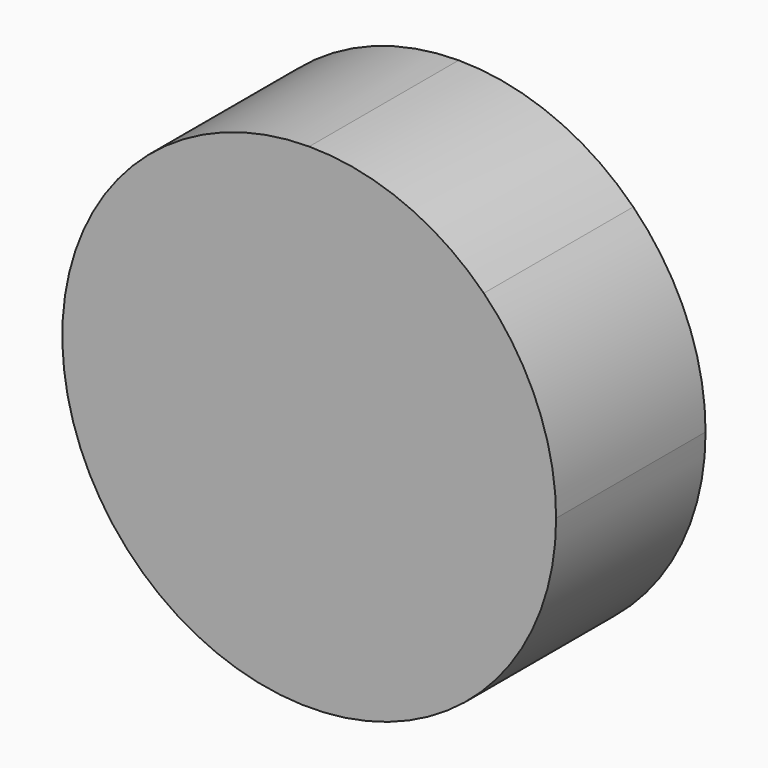
from build123d import *

# Parameters (mm, degrees)
F1_DEPTH = 12.5


with BuildPart() as f1:
    # F0 (on Front) → F1 (new body, symmetric)
    with BuildSketch(Plane.XZ):
        with BuildLine():
            ThreePointArc((0, 33.040493), (-23.363156, -23.363156), (33.040493, 0))
            Line((33.040493, 0), (0, 0))
            Line((0, 0), (0, 33.040493))
        make_face()
        with BuildLine():
            Line((0, 0), (33.040493, 0))
            ThreePointArc((33.040493, 0), (30.525435, 12.644049), (23.363156, 23.363156))
            Line((23.363156, 23.363156), (0, 0))
        make_face()
        with BuildLine():
            Line((0, 0), (23.363156, 23.363156))
            ThreePointArc((23.363156, 23.363156), (12.644049, 30.525435), (0, 33.040493))
            Line((0, 33.040493), (0, 0))
        make_face()
    extrude(amount=F1_DEPTH, both=True)


solid = f1.part
